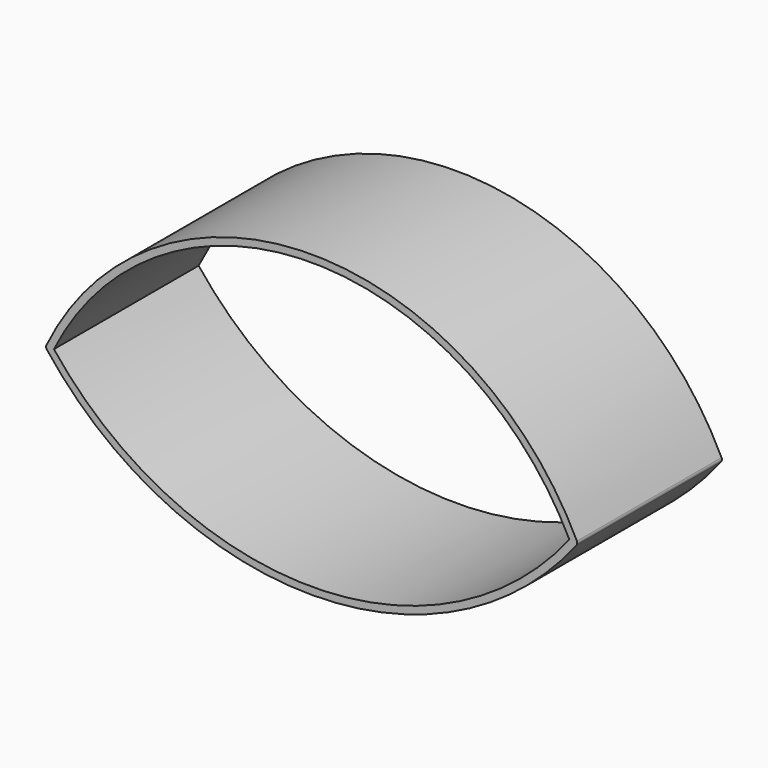
from build123d import *

# Parameters (mm, degrees)
F1_DEPTH = 25


with BuildPart() as f1:
    # F0 (on Front) → F1 (new body, symmetric)
    with BuildSketch(Plane.XZ):
        with BuildLine():
            ThreePointArc((74.354294, -0.612335), (74.558297, -0.10376), (74.463656, 0.435969))
            ThreePointArc((74.463656, 0.435969), (1.137581, 46.391442), (-72.188495, 0.435969))
            ThreePointArc((-72.188495, 0.435969), (-72.283136, -0.10376), (-72.079132, -0.612335))
            ThreePointArc((-72.079132, -0.612335), (1.137581, -36.513716), (74.354294, -0.612335))
        make_face()
        with BuildLine():
            ThreePointArc((-70.115532, 0.12209), (1.137581, 44.391442), (72.390694, 0.12209))
            ThreePointArc((72.390694, 0.12209), (1.137581, -34.513716), (-70.115532, 0.12209))
        make_face(mode=Mode.SUBTRACT)
    extrude(amount=F1_DEPTH, both=True)


solid = f1.part
